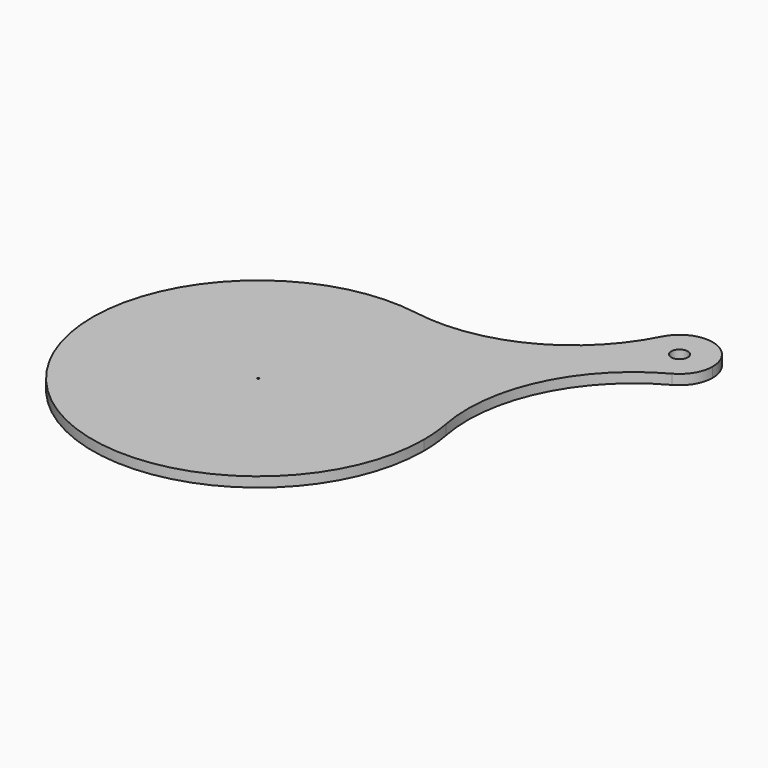
from build123d import *

# Parameters (mm, degrees)
F1_R     = 0.5
F1_R_2   = 5
F2_DEPTH = 6


with BuildPart() as f2:
    # F1 (on Top) → F2 (new body)
    with BuildSketch(Plane.XY):
        with BuildLine():
            ThreePointArc((-28.436152, 52.807782), (-121.023044, -110.533624), (55.240694, -45.850997))
            ThreePointArc((55.240694, -45.850997), (54.798935, -36.461824), (53.477562, -27.155606))
            ThreePointArc((53.477562, -27.155606), (25.094366, 25.706424), (-28.436152, 52.807782))
        make_face()
        with Locations((-44.759306, -45.850997)):
            Circle(F1_R, mode=Mode.SUBTRACT)
        with BuildLine():
            ThreePointArc((-28.436152, 52.807782), (25.094366, 25.706424), (53.477562, -27.155606))
            ThreePointArc((53.477562, -27.155606), (61.452993, 34.584794), (104.409104, 79.643168))
            ThreePointArc((104.409104, 79.643168), (80.977304, 82.95236), (77.104532, 106.29763))
            ThreePointArc((77.104532, 106.29763), (33.094175, 62.268402), (-28.436152, 52.807782))
        make_face()
        with BuildLine():
            ThreePointArc((77.104532, 106.29763), (80.977304, 82.95236), (104.409104, 79.643168))
            ThreePointArc((104.409104, 79.643168), (112.112264, 86.997913), (114.948038, 97.263844))
            ThreePointArc((114.948038, 97.263844), (99.591845, 116.717252), (77.104532, 106.29763))
        make_face()
        with Locations((94.948038, 97.263844)):
            Circle(F1_R_2, mode=Mode.SUBTRACT)
    extrude(amount=F2_DEPTH)


solid = f2.part
